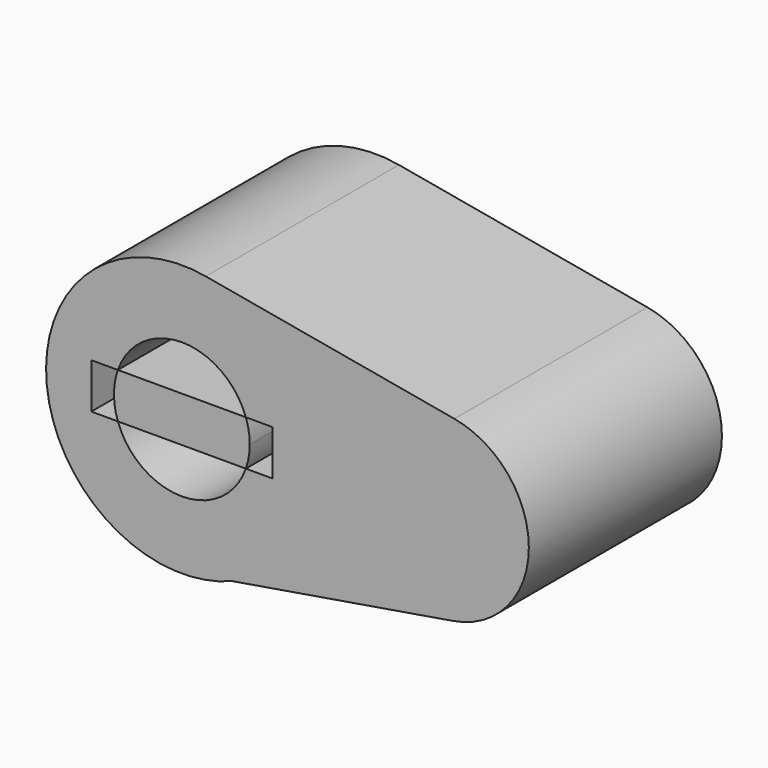
from build123d import *

# Parameters (mm, degrees)
F0_R     = 14.2875
F1_DEPTH = 25.4
F2_DEPTH = 50.8


with BuildPart() as f1:
    # F0 (on Front) → F1 (new body)
    with BuildSketch(Plane.XZ):
        with BuildLine():
            ThreePointArc((10.6028986019, -26.5350554218), (23.6591256448, -16.0242440921), (28.575, 0))
            ThreePointArc((28.575, 0), (21.9160245563, 18.3362616868), (5.0426470588, 28.1265414802))
            ThreePointArc((5.0426470588, 28.1265414802), (-28.428301369, -2.8917652523), (10.6028986019, -26.5350554218))
        make_face()
        with BuildLine():
            ThreePointArc((-13.4703841816, 4.7625), (0, 14.2875), (13.4703841816, 4.7625))
            Line((13.4703841816, 4.7625), (19.05, 4.7625))
            Line((19.05, 4.7625), (19.05, -4.7625))
            Line((19.05, -4.7625), (13.4703841816, -4.7625))
            ThreePointArc((13.4703841816, -4.7625), (0, -14.2875), (-13.4703841816, -4.7625))
            Line((-13.4703841816, -4.7625), (-19.05, -4.7625))
            Line((-19.05, -4.7625), (-19.05, 4.7625))
            Line((-19.05, 4.7625), (-13.4703841816, 4.7625))
        make_face(mode=Mode.SUBTRACT)
        with BuildLine():
            ThreePointArc((5.0426470588, 28.1265414802), (21.9160245563, 18.3362616868), (28.575, 0))
            ThreePointArc((28.575, 0), (23.6591256448, -16.0242440921), (10.6028986019, -26.5350554218))
            Line((10.6028986019, -26.5350554218), (57.1042847279, -18.7912234059))
            ThreePointArc((57.1042847279, -18.7912234059), (34.9253652439, 0.1179646543), (57.3367647059, 18.7510276535))
            Line((57.3367647059, 18.7510276535), (5.0426470588, 28.1265414802))
        make_face()
        with BuildLine():
            ThreePointArc((73.025, 0), (68.5856830375, 12.2241744579), (57.3367647059, 18.7510276535))
            ThreePointArc((57.3367647059, 18.7510276535), (34.9253652439, 0.1179646543), (57.1042847279, -18.7912234059))
            ThreePointArc((57.1042847279, -18.7912234059), (68.5097062933, -12.3144148447), (73.025, 0))
        make_face()
        with Locations((53.975, 0)):
            Circle(F0_R, mode=Mode.SUBTRACT)
    extrude(amount=F1_DEPTH)

    # F0 (on Front) → F2 (join)
    with BuildSketch(Plane.XZ):
        with BuildLine():
            ThreePointArc((10.6028986019, -26.5350554218), (23.6591256448, -16.0242440921), (28.575, 0))
            ThreePointArc((28.575, 0), (21.9160245563, 18.3362616868), (5.0426470588, 28.1265414802))
            ThreePointArc((5.0426470588, 28.1265414802), (-28.428301369, -2.8917652523), (10.6028986019, -26.5350554218))
        make_face()
        with BuildLine():
            ThreePointArc((-13.4703841816, 4.7625), (0, 14.2875), (13.4703841816, 4.7625))
            Line((13.4703841816, 4.7625), (19.05, 4.7625))
            Line((19.05, 4.7625), (19.05, -4.7625))
            Line((19.05, -4.7625), (13.4703841816, -4.7625))
            ThreePointArc((13.4703841816, -4.7625), (0, -14.2875), (-13.4703841816, -4.7625))
            Line((-13.4703841816, -4.7625), (-19.05, -4.7625))
            Line((-19.05, -4.7625), (-19.05, 4.7625))
            Line((-19.05, 4.7625), (-13.4703841816, 4.7625))
        make_face(mode=Mode.SUBTRACT)
        with BuildLine():
            ThreePointArc((73.025, 0), (68.5856830375, 12.2241744579), (57.3367647059, 18.7510276535))
            ThreePointArc((57.3367647059, 18.7510276535), (34.9253652439, 0.1179646543), (57.1042847279, -18.7912234059))
            ThreePointArc((57.1042847279, -18.7912234059), (68.5097062933, -12.3144148447), (73.025, 0))
        make_face()
        with Locations((53.975, 0)):
            Circle(F0_R, mode=Mode.SUBTRACT)
        with BuildLine():
            ThreePointArc((5.0426470588, 28.1265414802), (21.9160245563, 18.3362616868), (28.575, 0))
            ThreePointArc((28.575, 0), (23.6591256448, -16.0242440921), (10.6028986019, -26.5350554218))
            Line((10.6028986019, -26.5350554218), (57.1042847279, -18.7912234059))
            ThreePointArc((57.1042847279, -18.7912234059), (34.9253652439, 0.1179646543), (57.3367647059, 18.7510276535))
            Line((57.3367647059, 18.7510276535), (5.0426470588, 28.1265414802))
        make_face()
        with Locations((53.975, 0)):
            Circle(F0_R)
        with BuildLine():
            ThreePointArc((13.4703841816, -4.7625), (14.081739421, -2.416044521), (14.2875, 0))
            ThreePointArc((14.2875, 0), (14.081739421, 2.416044521), (13.4703841816, 4.7625))
            Line((13.4703841816, 4.7625), (-13.4703841816, 4.7625))
            ThreePointArc((-13.4703841816, 4.7625), (-14.2875, 0), (-13.4703841816, -4.7625))
            Line((-13.4703841816, -4.7625), (13.4703841816, -4.7625))
        make_face()
    extrude(amount=F2_DEPTH)


solid = f1.part
